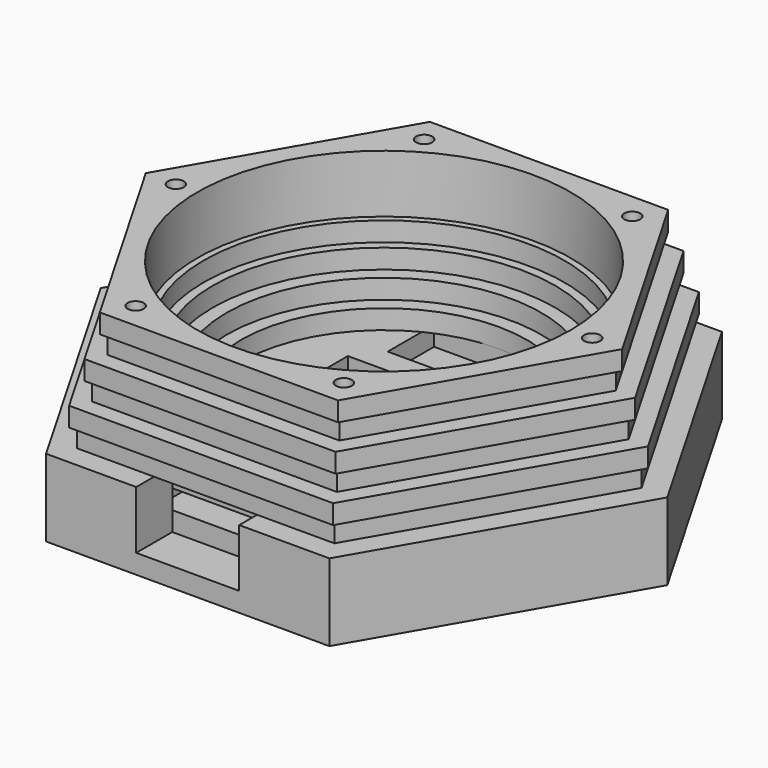
from build123d import *

# Parameters (mm, degrees)
PAD_DEPTH          = 9
SKETCH001_W        = 26.1
SKETCH001_H        = 34.4
POCKET_DEPTH       = 3
SKETCH002_R        = 22.22
PAD001_DEPTH       = 3
SKETCH003_R        = 24.44
PAD002_DEPTH       = 3
SKETCH004_R        = 26.6
PAD003_DEPTH       = 3
SKETCH005_R        = 28
PAD004_DEPTH       = 3
SKETCH006_R        = 29
PAD005_DEPTH       = 3
SKETCH007_R        = 29
PAD006_DEPTH       = 3
SKETCH008_R        = 29
PAD007_DEPTH       = 3
SKETCH009_W        = 17
SKETCH009_H        = 24
POCKET001_DEPTH    = 3
SKETCH010_W        = 16
SKETCH010_H        = 9
POCKET002_DEPTH    = 7
SKETCH011_W        = 20
SKETCH011_H        = 9
POCKET003_DEPTH    = 3
SKETCH012_R        = 1.25
POCKET004_DEPTH    = 270.433943
POLARPATTERN_COUNT = 6
SKETCH013_W        = 3
SKETCH013_H        = 38
POCKET005_DEPTH    = 3
SKETCH014_W        = 3
SKETCH014_H        = 6
POCKET006_DEPTH    = 6
SKETCH015_W        = 10.05
SKETCH015_H        = 6
POCKET007_DEPTH    = 3


with BuildPart() as part:
    # Sketch → Pad (new body)
    with BuildSketch(Plane.XY):
        Polygon((44, 0), (22, 38.105118), (-22, 38.105118), (-44, 0), (-22, -38.105118), (22, -38.105118), align=None)
    extrude(amount=PAD_DEPTH)

    # Sketch001 (on Face8 of Pad) → Pocket (cut)
    with BuildSketch(Plane.XY.offset(9)):
        with Locations((0, -13.905118)):
            Rectangle(SKETCH001_W, SKETCH001_H)
    extrude(amount=-POCKET_DEPTH, mode=Mode.SUBTRACT)

    # Sketch002 (on Face5 of Pocket) → Pad001 (join)
    with BuildSketch(Plane.XY.offset(9)):
        Polygon((22, 38.105118), (-22, 38.105118), (-44, 0), (-22, -38.105118), (22, -38.105118), (44, 0), align=None)
        Circle(SKETCH002_R, mode=Mode.SUBTRACT)
    extrude(amount=PAD001_DEPTH)

    # Sketch003 (on Face14 of Pad001) → Pad002 (join)
    with BuildSketch(Plane.XY.offset(12)):
        Polygon((40, 0), (20, 34.641016), (-20, 34.641016), (-40, 0), (-20, -34.641016), (20, -34.641016), align=None)
        Circle(SKETCH003_R, mode=Mode.SUBTRACT)
    extrude(amount=PAD002_DEPTH)

    # Sketch004 (on Face21 of Pad002) → Pad003 (join)
    with BuildSketch(Plane.XY.offset(15)):
        Polygon((41, 0), (20.5, 35.507042), (-20.5, 35.507042), (-41, 0), (-20.5, -35.507042), (20.5, -35.507042), align=None)
        Circle(SKETCH004_R, mode=Mode.SUBTRACT)
    extrude(amount=PAD003_DEPTH)

    # Sketch005 (on Face28 of Pad003) → Pad004 (join)
    with BuildSketch(Plane.XY.offset(18)):
        Polygon((19, 32.908965), (-19, 32.908965), (-38, 0), (-19, -32.908965), (19, -32.908965), (38, 0), align=None)
        Circle(SKETCH005_R, mode=Mode.SUBTRACT)
    extrude(amount=PAD004_DEPTH)

    # Sketch006 (on Face35 of Pad004) → Pad005 (join)
    with BuildSketch(Plane.XY.offset(21)):
        Polygon((39, 0), (19.5, 33.774991), (-19.5, 33.774991), (-39, 0), (-19.5, -33.774991), (19.5, -33.774991), align=None)
        Circle(SKETCH006_R, mode=Mode.SUBTRACT)
    extrude(amount=PAD005_DEPTH)

    # Sketch007 (on Face42 of Pad005) → Pad006 (join)
    with BuildSketch(Plane.XY.offset(24)):
        Polygon((36, 0), (18, 31.176915), (-18, 31.176915), (-36, 0), (-18, -31.176915), (18, -31.176915), align=None)
        Circle(SKETCH007_R, mode=Mode.SUBTRACT)
    extrude(amount=PAD006_DEPTH)

    # Sketch008 (on Face49 of Pad006) → Pad007 (join)
    with BuildSketch(Plane.XY.offset(27)):
        Polygon((37, 0), (18.5, 32.04294), (-18.5, 32.04294), (-37, 0), (-18.5, -32.04294), (18.5, -32.04294), align=None)
        Circle(SKETCH008_R, mode=Mode.SUBTRACT)
    extrude(amount=PAD007_DEPTH)

    # Sketch009 (on Face74 of Pad007) → Pocket001 (cut)
    with BuildSketch(Plane.XY.offset(6)):
        with Locations((0, -8.705118)):
            Rectangle(SKETCH009_W, SKETCH009_H)
    extrude(amount=-POCKET001_DEPTH, mode=Mode.SUBTRACT)

    # Sketch010 (on Face12 of Pocket001) → Pocket002 (cut)
    with BuildSketch(Plane.XZ.offset(38.105118)):
        with Locations((0, 7.5)):
            Rectangle(SKETCH010_W, SKETCH010_H)
    extrude(amount=-POCKET002_DEPTH, mode=Mode.SUBTRACT)

    # Sketch011 (on Face40 of Pocket002) → Pocket003 (cut)
    with BuildSketch(Plane.XY.offset(9)):
        with Locations((0, 17.72)):
            Rectangle(SKETCH011_W, SKETCH011_H)
    extrude(amount=-POCKET003_DEPTH, mode=Mode.SUBTRACT)

    # Sketch012 (on Face93 of Pocket003) → Pocket004 (cut, through all)
    with BuildSketch(Plane.XY.offset(30)):
        with Locations((-32.33, 0)):
            Circle(SKETCH012_R)
    pocket004 = extrude(amount=-POCKET004_DEPTH, mode=Mode.SUBTRACT)

    # PolarPattern: Pocket004 ×6 about axis
    polarpattern_axis = Axis((0, 0, 30), (0, 0, 1))
    for i in range(1, POLARPATTERN_COUNT):
        add(pocket004.rotate(polarpattern_axis, i * 360 / POLARPATTERN_COUNT), mode=Mode.SUBTRACT)

    # Sketch013 (on Face45 of PolarPattern) → Pocket005 (cut)
    with BuildSketch(Plane.XY.offset(6)):
        with Locations((-11.55, -12.105118)):
            Rectangle(SKETCH013_W, SKETCH013_H)
    extrude(amount=-POCKET005_DEPTH, mode=Mode.SUBTRACT)

    # Sketch014 (on Face58 of Pocket005) → Pocket006 (cut)
    with BuildSketch(Plane.XY.offset(9)):
        with Locations((-11.55, 6.294882)):
            Rectangle(SKETCH014_W, SKETCH014_H)
    extrude(amount=-POCKET006_DEPTH, mode=Mode.SUBTRACT)

    # Sketch015 (on Face58 of Pocket006) → Pocket007 (cut)
    with BuildSketch(Plane.XY.offset(9)):
        with Locations((-5.025, 6.294882)):
            Rectangle(SKETCH015_W, SKETCH015_H)
    extrude(amount=-POCKET007_DEPTH, mode=Mode.SUBTRACT)


solid = part.part
